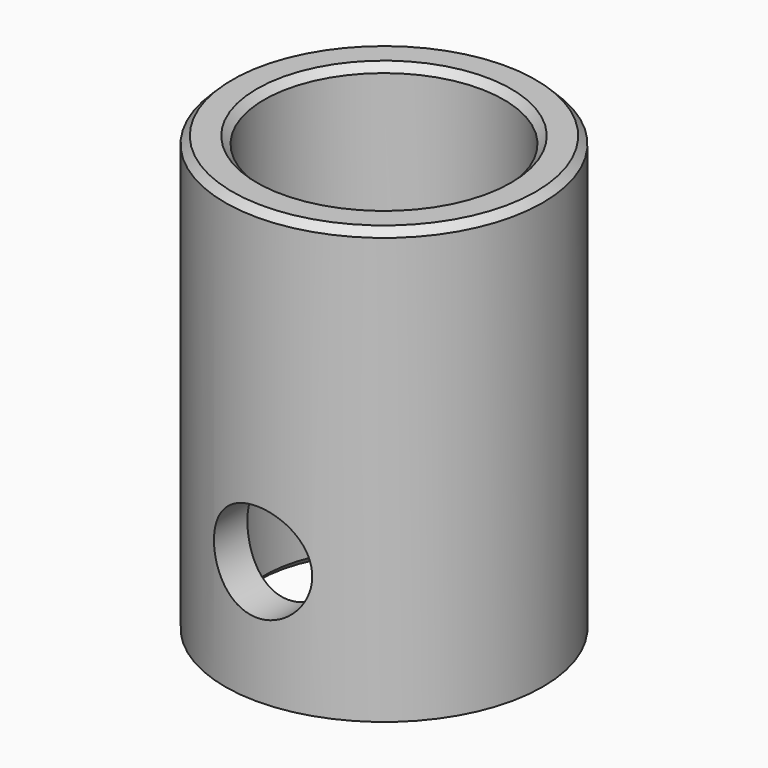
from build123d import *

# Parameters (mm, degrees)
CYLINDER_R          = 3.4
CYLINDER_DEPTH      = 100
CYLINDER_ROLL_ANGLE = 90
SKETCH_R            = 11
PAD_DEPTH           = 30
SKETCH001_R         = 8.3
POCKET_DEPTH        = 30.001
CHAMFER_SIZE        = 0.5


with BuildPart() as cylinder:
    # Cylinder → Cylinder (new body)
    with BuildSketch(Plane.XY):
        Circle(CYLINDER_R)
    extrude(amount=CYLINDER_DEPTH)


with BuildPart() as cylinder_1:
    # Cylinder roll: moved
    add(cylinder.part.rotate(Axis((0, 0, 0), (1, 0, 0)), CYLINDER_ROLL_ANGLE))


with BuildPart() as cylinder_2:
    # Cylinder placement: moved
    add(cylinder_1.part.moved(Location((0, 16, 8.5))))


with BuildPart() as chamfer_body:
    # Sketch → Pad (new body)
    with BuildSketch(Plane.XY):
        Circle(SKETCH_R)
    extrude(amount=PAD_DEPTH)

    # Sketch001 → Pocket (cut, through all)
    with BuildSketch(Plane(origin=(0, 0, 0), x_dir=(1, 0, 0), z_dir=(0, 0, -1))):
        Circle(SKETCH001_R)
    extrude(amount=-POCKET_DEPTH, mode=Mode.SUBTRACT)

    # Cut: cut Cylinder
    add(cylinder_2.part, mode=Mode.SUBTRACT)

    # Chamfer
    chamfer_edges = [chamfer_body.edges().sort_by_distance(p)[0] for p in [
        (-8.3, 0, 0),
        (-8.3, 0, 30),
        (-11, 0, 30),
    ]]
    chamfer(chamfer_edges, length=CHAMFER_SIZE)


solid = chamfer_body.part
